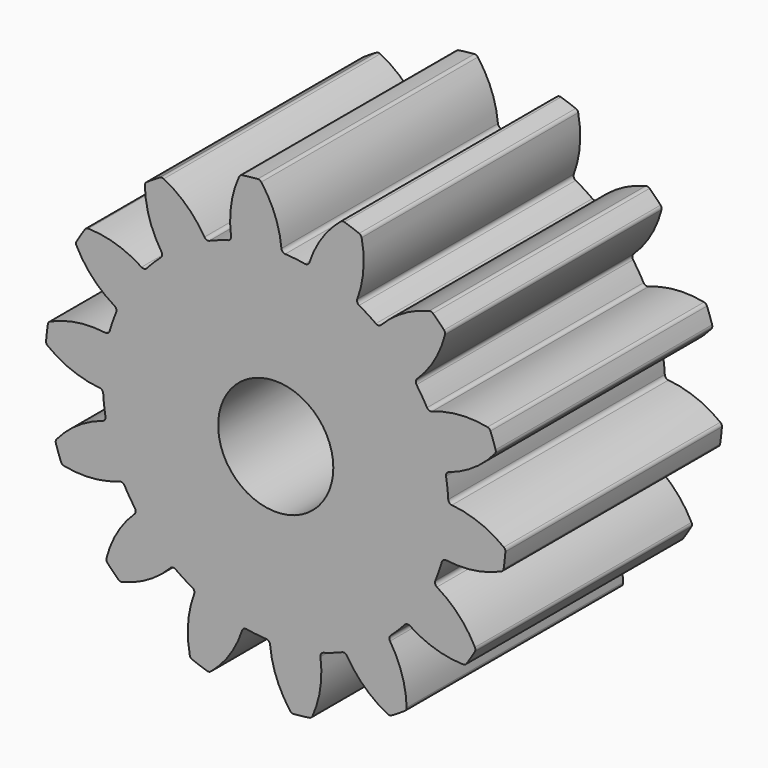
from build123d import *

# Parameters (mm, degrees)
F1_DEPTH = 4.7
F2_R     = 1
F3_DEPTH = 4.701


with BuildPart() as f1:
    # F0 (on Front) → F1 (new body)
    with BuildSketch(Plane.XZ):
        with BuildLine():
            ThreePointArc((0.098425, 3.059087), (-0.012908, 3.534339), (-0.251173, 3.960354))
            ThreePointArc((-0.251173, 3.960354), (-0.278273, 3.981875), (-0.312371, 3.987784))
            ThreePointArc((-0.312371, 3.987784), (-0.447858, 3.974849), (-0.582826, 3.957311))
            ThreePointArc((-0.582826, 3.957311), (-0.614754, 3.943963), (-0.636386, 3.916951))
            ThreePointArc((-0.636386, 3.916951), (-0.77388, 3.448598), (-0.776668, 2.960488))
            ThreePointArc((-0.776668, 2.960488), (-0.787436, 2.912836), (-0.826748, 2.883832))
            ThreePointArc((-0.826748, 2.883832), (-0.990837, 2.83165), (-1.151662, 2.77014))
            ThreePointArc((-1.151662, 2.77014), (-1.596096, 2.540173), (-1.996122, 2.239531))
            ThreePointArc((-1.996122, 2.239531), (-2.12132, 2.12132), (-2.239531, 1.996122))
            ThreePointArc((-2.239531, 1.996122), (-2.540173, 1.596096), (-2.77014, 1.151662))
            ThreePointArc((-2.77014, 1.151662), (-2.83165, 0.990837), (-2.883832, 0.826748))
            ThreePointArc((-2.883832, 0.826748), (-2.981137, 0.335893), (-2.995497, -0.164307))
            ThreePointArc((-2.995497, -0.164307), (-2.981137, -0.335893), (-2.956955, -0.506374))
            ThreePointArc((-2.956955, -0.506374), (-2.83165, -0.990837), (-2.62756, -1.447733))
            ThreePointArc((-2.62756, -1.447733), (-2.540173, -1.596096), (-2.444417, -1.739202))
            ThreePointArc((-2.444417, -1.739202), (-2.12132, -2.12132), (-1.739202, -2.444417))
            ThreePointArc((-1.739202, -2.444417), (-1.596096, -2.540173), (-1.447733, -2.62756))
            ThreePointArc((-1.447733, -2.62756), (-0.990837, -2.83165), (-0.506374, -2.956955))
            ThreePointArc((-0.506374, -2.956955), (-0.335893, -2.981137), (-0.164307, -2.995497))
            ThreePointArc((-0.164307, -2.995497), (0.335893, -2.981137), (0.826748, -2.883832))
            ThreePointArc((0.826748, -2.883832), (0.990837, -2.83165), (1.151662, -2.77014))
            ThreePointArc((1.151662, -2.77014), (1.596096, -2.540173), (1.996122, -2.239531))
            ThreePointArc((1.996122, -2.239531), (2.12132, -2.12132), (2.239531, -1.996122))
            ThreePointArc((2.239531, -1.996122), (2.540173, -1.596096), (2.77014, -1.151662))
            ThreePointArc((2.77014, -1.151662), (2.83165, -0.990837), (2.883832, -0.826748))
            ThreePointArc((2.883832, -0.826748), (2.981137, -0.335893), (2.995497, 0.164307))
            ThreePointArc((2.995497, 0.164307), (2.981137, 0.335893), (2.956955, 0.506374))
            ThreePointArc((2.956955, 0.506374), (2.83165, 0.990837), (2.62756, 1.447733))
            ThreePointArc((2.62756, 1.447733), (2.540173, 1.596096), (2.444417, 1.739202))
            ThreePointArc((2.444417, 1.739202), (2.12132, 2.12132), (1.739202, 2.444417))
            ThreePointArc((1.739202, 2.444417), (1.596096, 2.540173), (1.447733, 2.62756))
            ThreePointArc((1.447733, 2.62756), (0.990837, 2.83165), (0.506374, 2.956955))
            ThreePointArc((0.506374, 2.956955), (0.335893, 2.981137), (0.164307, 2.995497))
            ThreePointArc((0.164307, 2.995497), (0.119527, 3.015026), (0.098425, 3.059087))
        make_face()
        with BuildLine():
            ThreePointArc((-1.996122, 2.239531), (-1.596096, 2.540173), (-1.151662, 2.77014))
            ThreePointArc((-1.151662, 2.77014), (-1.200481, 2.768306), (-1.23861, 2.798847))
            ThreePointArc((-1.23861, 2.798847), (-1.545121, 3.178729), (-1.944632, 3.459175))
            ThreePointArc((-1.944632, 3.459175), (-1.978386, 3.466807), (-2.011671, 3.457337))
            ThreePointArc((-2.011671, 3.457337), (-2.128128, 3.386897), (-2.242121, 3.312536))
            ThreePointArc((-2.242121, 3.312536), (-2.265096, 3.286656), (-2.272865, 3.252933))
            ThreePointArc((-2.272865, 3.252933), (-2.193533, 2.771305), (-1.984261, 2.330324))
            ThreePointArc((-1.984261, 2.330324), (-1.973288, 2.282719), (-1.996122, 2.239531))
        make_face()
        with BuildLine():
            ThreePointArc((-2.995497, -0.164307), (-2.981137, 0.335893), (-2.883832, 0.826748))
            ThreePointArc((-2.883832, 0.826748), (-2.912836, 0.787436), (-2.960488, 0.776668))
            ThreePointArc((-2.960488, 0.776668), (-3.448598, 0.77388), (-3.916951, 0.636386))
            ThreePointArc((-3.916951, 0.636386), (-3.943963, 0.614754), (-3.957311, 0.582826))
            ThreePointArc((-3.957311, 0.582826), (-3.974849, 0.447858), (-3.987784, 0.312371))
            ThreePointArc((-3.987784, 0.312371), (-3.981875, 0.278273), (-3.960354, 0.251173))
            ThreePointArc((-3.960354, 0.251173), (-3.534339, 0.012908), (-3.059087, -0.098425))
            ThreePointArc((-3.059087, -0.098425), (-3.015026, -0.119527), (-2.995497, -0.164307))
        make_face()
        with BuildLine():
            ThreePointArc((-1.739202, -2.444417), (-2.12132, -2.12132), (-2.444417, -1.739202))
            ThreePointArc((-2.444417, -1.739202), (-2.431766, -1.786389), (-2.453058, -1.830358))
            ThreePointArc((-2.453058, -1.830358), (-2.75521, -2.213716), (-2.939725, -2.665615))
            ThreePointArc((-2.939725, -2.665615), (-2.939655, -2.700221), (-2.923015, -2.730565))
            ThreePointArc((-2.923015, -2.730565), (-2.828427, -2.828427), (-2.730565, -2.923015))
            ThreePointArc((-2.730565, -2.923015), (-2.700221, -2.939655), (-2.665615, -2.939725))
            ThreePointArc((-2.665615, -2.939725), (-2.213716, -2.75521), (-1.830358, -2.453058))
            ThreePointArc((-1.830358, -2.453058), (-1.786389, -2.431766), (-1.739202, -2.444417))
        make_face()
        with BuildLine():
            ThreePointArc((-0.506374, -2.956955), (-0.990837, -2.83165), (-1.447733, -2.62756))
            ThreePointArc((-1.447733, -2.62756), (-1.415861, -2.664584), (-1.415966, -2.713437))
            ThreePointArc((-1.415966, -2.713437), (-1.521863, -3.18993), (-1.492034, -3.677135))
            ThreePointArc((-1.492034, -3.677135), (-1.476955, -3.708284), (-1.448798, -3.728402))
            ThreePointArc((-1.448798, -3.728402), (-1.321116, -3.775533), (-1.191905, -3.818293))
            ThreePointArc((-1.191905, -3.818293), (-1.157347, -3.820119), (-1.126137, -3.805168))
            ThreePointArc((-1.126137, -3.805168), (-0.799048, -3.442853), (-0.584754, -3.004291))
            ThreePointArc((-0.584754, -3.004291), (-0.554377, -2.966031), (-0.506374, -2.956955))
        make_face()
        with BuildLine():
            ThreePointArc((0.776668, -2.960488), (0.787436, -2.912836), (0.826748, -2.883832))
            ThreePointArc((0.826748, -2.883832), (0.335893, -2.981137), (-0.164307, -2.995497))
            ThreePointArc((-0.164307, -2.995497), (-0.119527, -3.015026), (-0.098425, -3.059087))
            ThreePointArc((-0.098425, -3.059087), (0.012908, -3.534339), (0.251173, -3.960354))
            ThreePointArc((0.251173, -3.960354), (0.278273, -3.981875), (0.312371, -3.987784))
            ThreePointArc((0.312371, -3.987784), (0.447858, -3.974849), (0.582826, -3.957311))
            ThreePointArc((0.582826, -3.957311), (0.614754, -3.943963), (0.636386, -3.916951))
            ThreePointArc((0.636386, -3.916951), (0.77388, -3.448598), (0.776668, -2.960488))
        make_face()
        with BuildLine():
            ThreePointArc((1.984261, -2.330324), (1.973288, -2.282719), (1.996122, -2.239531))
            ThreePointArc((1.996122, -2.239531), (1.596096, -2.540173), (1.151662, -2.77014))
            ThreePointArc((1.151662, -2.77014), (1.200481, -2.768306), (1.23861, -2.798847))
            ThreePointArc((1.23861, -2.798847), (1.545121, -3.178729), (1.944632, -3.459175))
            ThreePointArc((1.944632, -3.459175), (1.978386, -3.466807), (2.011671, -3.457337))
            ThreePointArc((2.011671, -3.457337), (2.128128, -3.386897), (2.242121, -3.312536))
            ThreePointArc((2.242121, -3.312536), (2.265096, -3.286656), (2.272865, -3.252933))
            ThreePointArc((2.272865, -3.252933), (2.193533, -2.771305), (1.984261, -2.330324))
        make_face()
        with BuildLine():
            ThreePointArc((2.798847, -1.23861), (2.768306, -1.200481), (2.77014, -1.151662))
            ThreePointArc((2.77014, -1.151662), (2.540173, -1.596096), (2.239531, -1.996122))
            ThreePointArc((2.239531, -1.996122), (2.282719, -1.973288), (2.330324, -1.984261))
            ThreePointArc((2.330324, -1.984261), (2.771305, -2.193533), (3.252933, -2.272865))
            ThreePointArc((3.252933, -2.272865), (3.286656, -2.265096), (3.312536, -2.242121))
            ThreePointArc((3.312536, -2.242121), (3.386897, -2.128128), (3.457337, -2.011671))
            ThreePointArc((3.457337, -2.011671), (3.466807, -1.978386), (3.459175, -1.944632))
            ThreePointArc((3.459175, -1.944632), (3.178729, -1.545121), (2.798847, -1.23861))
        make_face()
        with BuildLine():
            ThreePointArc((3.059087, 0.098425), (3.015026, 0.119527), (2.995497, 0.164307))
            ThreePointArc((2.995497, 0.164307), (2.981137, -0.335893), (2.883832, -0.826748))
            ThreePointArc((2.883832, -0.826748), (2.912836, -0.787436), (2.960488, -0.776668))
            ThreePointArc((2.960488, -0.776668), (3.448598, -0.77388), (3.916951, -0.636386))
            ThreePointArc((3.916951, -0.636386), (3.943963, -0.614754), (3.957311, -0.582826))
            ThreePointArc((3.957311, -0.582826), (3.974849, -0.447858), (3.987784, -0.312371))
            ThreePointArc((3.987784, -0.312371), (3.981875, -0.278273), (3.960354, -0.251173))
            ThreePointArc((3.960354, -0.251173), (3.534339, -0.012908), (3.059087, 0.098425))
        make_face()
        with BuildLine():
            ThreePointArc((2.713437, 1.415966), (2.664584, 1.415861), (2.62756, 1.447733))
            ThreePointArc((2.62756, 1.447733), (2.83165, 0.990837), (2.956955, 0.506374))
            ThreePointArc((2.956955, 0.506374), (2.966031, 0.554377), (3.004291, 0.584754))
            ThreePointArc((3.004291, 0.584754), (3.442853, 0.799048), (3.805168, 1.126137))
            ThreePointArc((3.805168, 1.126137), (3.820119, 1.157347), (3.818293, 1.191905))
            ThreePointArc((3.818293, 1.191905), (3.775533, 1.321116), (3.728402, 1.448798))
            ThreePointArc((3.728402, 1.448798), (3.708284, 1.476955), (3.677135, 1.492034))
            ThreePointArc((3.677135, 1.492034), (3.18993, 1.521863), (2.713437, 1.415966))
        make_face()
        with BuildLine():
            ThreePointArc((1.830358, 2.453058), (1.786389, 2.431766), (1.739202, 2.444417))
            ThreePointArc((1.739202, 2.444417), (2.12132, 2.12132), (2.444417, 1.739202))
            ThreePointArc((2.444417, 1.739202), (2.431766, 1.786389), (2.453058, 1.830358))
            ThreePointArc((2.453058, 1.830358), (2.75521, 2.213716), (2.939725, 2.665615))
            ThreePointArc((2.939725, 2.665615), (2.939655, 2.700221), (2.923015, 2.730565))
            ThreePointArc((2.923015, 2.730565), (2.828427, 2.828427), (2.730565, 2.923015))
            ThreePointArc((2.730565, 2.923015), (2.700221, 2.939655), (2.665615, 2.939725))
            ThreePointArc((2.665615, 2.939725), (2.213716, 2.75521), (1.830358, 2.453058))
        make_face()
        with BuildLine():
            ThreePointArc((0.584754, 3.004291), (0.554377, 2.966031), (0.506374, 2.956955))
            ThreePointArc((0.506374, 2.956955), (0.990837, 2.83165), (1.447733, 2.62756))
            ThreePointArc((1.447733, 2.62756), (1.415861, 2.664584), (1.415966, 2.713437))
            ThreePointArc((1.415966, 2.713437), (1.521863, 3.18993), (1.492034, 3.677135))
            ThreePointArc((1.492034, 3.677135), (1.476955, 3.708284), (1.448798, 3.728402))
            ThreePointArc((1.448798, 3.728402), (1.321116, 3.775533), (1.191905, 3.818293))
            ThreePointArc((1.191905, 3.818293), (1.157347, 3.820119), (1.126137, 3.805168))
            ThreePointArc((1.126137, 3.805168), (0.799048, 3.442853), (0.584754, 3.004291))
        make_face()
        with BuildLine():
            ThreePointArc((-2.77014, 1.151662), (-2.540173, 1.596096), (-2.239531, 1.996122))
            ThreePointArc((-2.239531, 1.996122), (-2.282719, 1.973288), (-2.330324, 1.984261))
            ThreePointArc((-2.330324, 1.984261), (-2.771305, 2.193533), (-3.252933, 2.272865))
            ThreePointArc((-3.252933, 2.272865), (-3.286656, 2.265096), (-3.312536, 2.242121))
            ThreePointArc((-3.312536, 2.242121), (-3.386897, 2.128128), (-3.457337, 2.011671))
            ThreePointArc((-3.457337, 2.011671), (-3.466807, 1.978386), (-3.459175, 1.944632))
            ThreePointArc((-3.459175, 1.944632), (-3.178729, 1.545121), (-2.798847, 1.23861))
            ThreePointArc((-2.798847, 1.23861), (-2.768306, 1.200481), (-2.77014, 1.151662))
        make_face()
        with BuildLine():
            ThreePointArc((-2.62756, -1.447733), (-2.83165, -0.990837), (-2.956955, -0.506374))
            ThreePointArc((-2.956955, -0.506374), (-2.966031, -0.554377), (-3.004291, -0.584754))
            ThreePointArc((-3.004291, -0.584754), (-3.442853, -0.799048), (-3.805168, -1.126137))
            ThreePointArc((-3.805168, -1.126137), (-3.820119, -1.157347), (-3.818293, -1.191905))
            ThreePointArc((-3.818293, -1.191905), (-3.775533, -1.321116), (-3.728402, -1.448798))
            ThreePointArc((-3.728402, -1.448798), (-3.708284, -1.476955), (-3.677135, -1.492034))
            ThreePointArc((-3.677135, -1.492034), (-3.18993, -1.521863), (-2.713437, -1.415966))
            ThreePointArc((-2.713437, -1.415966), (-2.664584, -1.415861), (-2.62756, -1.447733))
        make_face()
    extrude(amount=F1_DEPTH)

    # F2 (on face) → F3 (cut, through all)
    with BuildSketch(Plane.XZ.offset(4.7)):
        Circle(F2_R)
    extrude(amount=-F3_DEPTH, mode=Mode.SUBTRACT)


solid = f1.part
